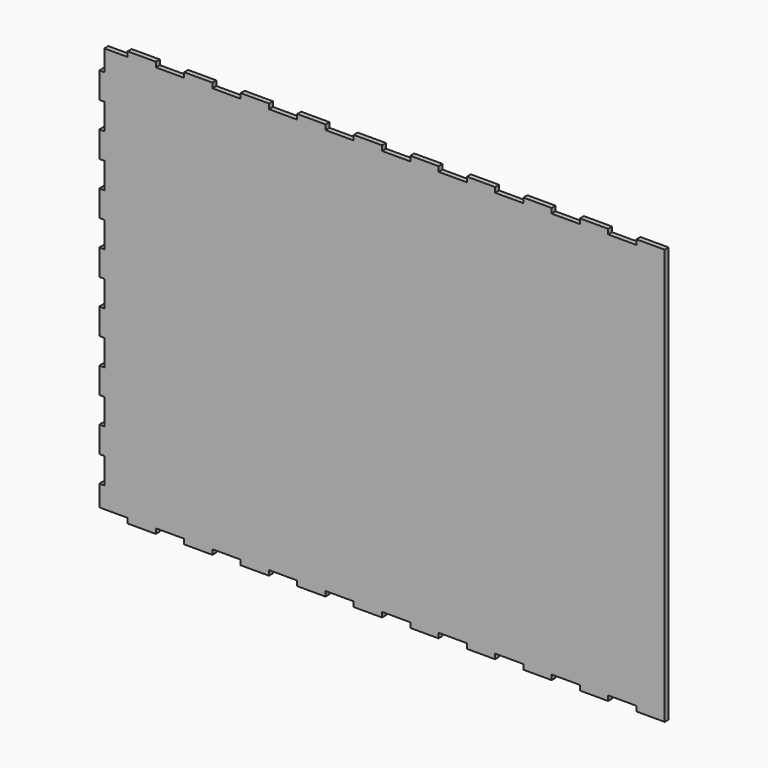
from build123d import *

# Parameters (mm, degrees)
F1_DEPTH = 3


with BuildPart() as f1:
    # F0 (on Front) → F1 (new body)
    with BuildSketch(Plane.XZ):
        Polygon((167.500045, -126.000002), (167.500045, 123.999998), (150.500045, 123.999998), (150.500045, 120.999998), (133.500045, 120.999998), (133.500045, 123.999998), (116.500045, 123.999998), (116.500045, 120.999998), (99.500045, 120.999998), (99.500045, 123.999998), (82.500045, 123.999998), (82.500045, 120.999998), (65.500045, 120.999998), (65.500045, 123.999998), (48.500045, 123.999998), (48.500045, 120.999998), (31.500045, 120.999998), (31.500045, 123.999998), (14.500045, 123.999998), (14.500045, 120.999998), (-2.499955, 120.999998), (-2.499955, 123.999998), (-19.499955, 123.999998), (-19.499955, 120.999998), (-36.499955, 120.999998), (-36.499955, 123.999998), (-53.499955, 123.999998), (-53.499955, 120.999998), (-70.499955, 120.999998), (-70.499955, 123.999998), (-87.499955, 123.999998), (-87.499955, 120.999998), (-104.499955, 120.999998), (-104.499955, 123.999998), (-121.499955, 123.999998), (-121.499955, 120.999998), (-138.499955, 120.999998), (-138.499955, 123.999998), (-155.499955, 123.999998), (-155.499955, 120.999998), (-169.499955, 120.999998), (-169.499955, 108.374998), (-172.499955, 108.374998), (-172.499955, 92.749998), (-169.499955, 92.749998), (-169.499955, 77.124998), (-172.499955, 77.124998), (-172.499955, 61.499998), (-169.499955, 61.499998), (-169.499955, 45.874998), (-172.499955, 45.874998), (-172.499955, 30.249998), (-169.499955, 30.249998), (-169.499955, 14.624998), (-172.499955, 14.624998), (-172.499955, -1.000002), (-169.499955, -1.000002), (-169.499955, -16.625002), (-172.499955, -16.625002), (-172.499955, -32.250002), (-169.499955, -32.250002), (-169.499955, -47.875002), (-172.499955, -47.875002), (-172.499955, -63.500002), (-169.499955, -63.500002), (-169.499955, -79.125002), (-172.499955, -79.125002), (-172.499955, -94.750002), (-169.499955, -94.750002), (-169.499955, -110.375002), (-172.499955, -110.375002), (-172.499955, -123.000002), (-155.499955, -123.000002), (-155.499955, -126.000002), (-138.499955, -126.000002), (-138.499955, -123.000002), (-121.499955, -123.000002), (-121.499955, -126.000002), (-104.499955, -126.000002), (-104.499955, -123.000002), (-87.499955, -123.000002), (-87.499955, -126.000002), (-70.499955, -126.000002), (-70.499955, -123.000002), (-53.499955, -123.000002), (-53.499955, -126.000002), (-36.499955, -126.000002), (-36.499955, -123.000002), (-19.499955, -123.000002), (-19.499955, -126.000002), (-2.499955, -126.000002), (-2.499955, -123.000002), (14.500045, -123.000002), (14.500045, -126.000002), (31.500045, -126.000002), (31.500045, -123.000002), (48.500045, -123.000002), (48.500045, -126.000002), (65.500045, -126.000002), (65.500045, -123.000002), (82.500045, -123.000002), (82.500045, -126.000002), (99.500045, -126.000002), (99.500045, -123.000002), (116.500045, -123.000002), (116.500045, -126.000002), (133.500045, -126.000002), (133.500045, -123.000002), (150.500045, -123.000002), (150.500045, -126.000002), align=None)
    extrude(amount=F1_DEPTH)


solid = f1.part
